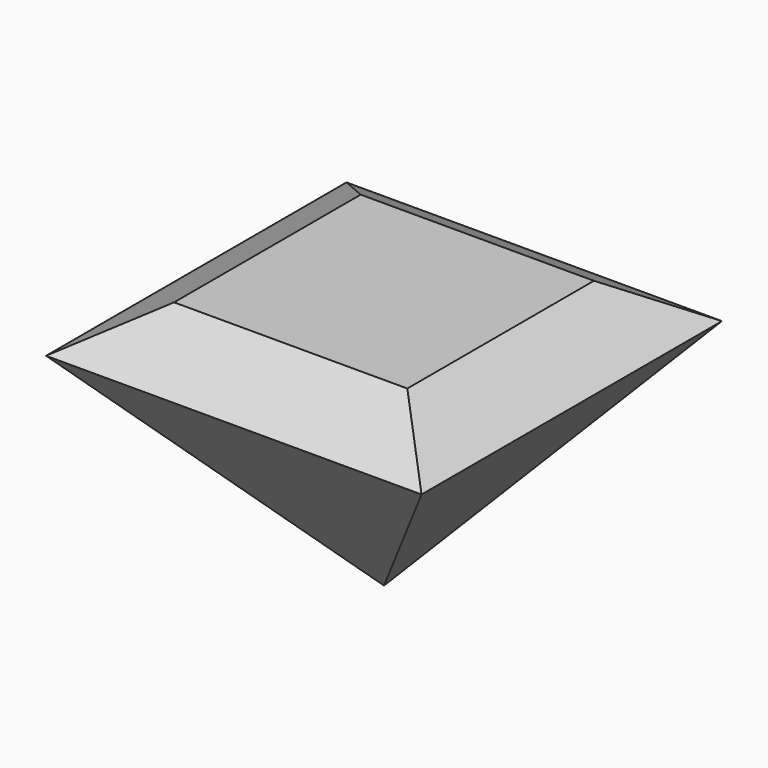
from build123d import *

# Parameters (mm, degrees)
F1_DEPTH      = 6.7056
F2_SIZE2      = 0.7366
F2_SIZE       = 1.27
F4_DEPTH      = 25
F4_DEPTH_BACK = 25


with BuildPart() as f1:
    # F0 (on Front) → F1 (new body)
    with BuildSketch(Plane.XZ):
        Polygon((2.0828, 0), (0, 0), (-2.0828, 0), (-3.3528, -0.7366), (0, -4.6228), (3.3528, -0.7366), align=None)
    extrude(amount=F1_DEPTH)

    # F2
    f2_edges = [f1.edges().sort_by_distance(p)[0] for p in [
        (0, -6.7056, 0),
        (0, 0, 0),
    ]]
    chamfer(f2_edges, length=F2_SIZE, length2=F2_SIZE2)

    # F3 (on Right) → F4 (cut, two sides)
    with BuildSketch(Plane.YZ) as f4_sk:
        Polygon((-3.3528, -4.6228), (-6.7056, -0.7366), (-7.370114, -5.010986), (0.519709, -5.010986), (0, -0.7366), align=None)
    extrude(amount=F4_DEPTH, mode=Mode.SUBTRACT)
    extrude(f4_sk.sketch, amount=-F4_DEPTH_BACK, mode=Mode.SUBTRACT)


solid = f1.part
